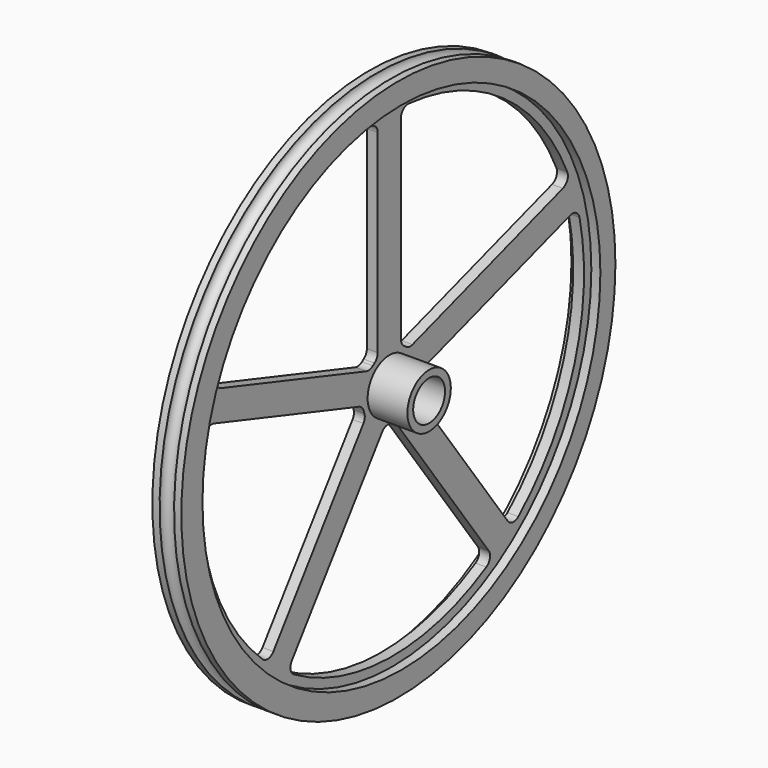
from build123d import *

# Parameters (mm, degrees)
F0_R          = 150
F0_R_2        = 137.5
F1_DEPTH      = 8
F1_DEPTH_BACK = 8
F0_R_3        = 15
F2_DEPTH      = 3
F2_DEPTH_BACK = 3
F0_R_4        = 11
F3_DEPTH      = 25
F3_DEPTH_BACK = 5
F4_R          = 4


with BuildPart() as f1:
    # F0 (on Right) → F1 (new body, two sides)
    with BuildSketch(Plane.YZ) as f1_sk:
        Circle(F0_R)
        with Locations((2.112069, 0)):
            Circle(F0_R_2, mode=Mode.SUBTRACT)
    extrude(amount=F1_DEPTH)
    extrude(f1_sk.sketch, amount=-F1_DEPTH_BACK)

    # F0 (on Right) → F2 (join, two sides)
    with BuildSketch(Plane.YZ) as f2_sk:
        with Locations((2.112069, 0)):
            Circle(F0_R_2)
        with BuildLine():
            ThreePointArc((-20.96825, -1.5987), (-18.909393, -2.888208), (-17.701314, -4.995877))
            ThreePointArc((-17.701314, -4.995877), (-17.492598, -5.68369), (-17.257166, -6.362822))
            ThreePointArc((-17.257166, -6.362822), (-16.995666, -8.778053), (-17.903363, -11.031452))
            Line((-17.903363, -11.031452), (-80.155489, -96.714153))
            ThreePointArc((-80.155489, -96.714153), (-83.705152, -98.750622), (-87.586694, -97.454111))
            ThreePointArc((-87.586694, -97.454111), (-124.025507, -40.404007), (-127.515568, 27.200141))
            ThreePointArc((-127.515568, 27.200141), (-125.127779, 30.500202), (-121.077051, 30.928621))
            Line((-121.077051, 30.928621), (-20.96825, -1.5987))
        make_face(mode=Mode.SUBTRACT)
        with BuildLine():
            ThreePointArc((67.077994, -115.42357), (0.327024, -132.43861), (-65.941115, -113.6307))
            ThreePointArc((-65.941115, -113.6307), (-68.271016, -110.341527), (-67.417198, -106.402225))
            Line((-67.417198, -106.402225), (-4.959091, -20.436016))
            ThreePointArc((-4.959091, -20.436016), (-3.096475, -18.876406), (-0.718646, -18.378761))
            ThreePointArc((-0.718646, -18.378761), (0, -18.392806), (0.718646, -18.378761))
            ThreePointArc((0.718646, -18.378761), (3.096475, -18.876406), (4.959091, -20.436016))
            Line((4.959091, -20.436016), (68.670621, -108.127414))
            ThreePointArc((68.670621, -108.127414), (69.510512, -112.132647), (67.077994, -115.42357))
        make_face(mode=Mode.SUBTRACT)
        with BuildLine():
            ThreePointArc((131.452799, 28.53327), (127.908721, -41.453278), (89.151697, -99.836241))
            ThreePointArc((89.151697, -99.836241), (85.303528, -101.035698), (81.820873, -99.006358))
            Line((81.820873, -99.006358), (17.903363, -11.031452))
            ThreePointArc((17.903363, -11.031452), (16.995666, -8.778053), (17.257166, -6.362822))
            ThreePointArc((17.257166, -6.362822), (17.492598, -5.68369), (17.701314, -4.995877))
            ThreePointArc((17.701314, -4.995877), (18.909393, -2.888208), (20.96825, -1.5987))
            Line((20.96825, -1.5987), (125.025113, 32.211424))
            ThreePointArc((125.025113, 32.211424), (129.053534, 31.795846), (131.452799, 28.53327))
        make_face(mode=Mode.SUBTRACT)
        with BuildLine():
            ThreePointArc((-119.298215, 52.940673), (-76.904867, 106.299086), (-13.59286, 131.516262))
            ThreePointArc((-13.59286, 131.516262), (-9.680685, 130.290805), (-8, 126.551534))
            Line((-8, 126.551534), (-8, 19.447965))
            ThreePointArc((-8, 19.447965), (-8.590172, 17.091396), (-10.221368, 15.291139))
            ThreePointArc((-10.221368, 15.291139), (-10.81102, 14.880092), (-11.384161, 14.44632))
            ThreePointArc((-11.384161, 14.44632), (-13.600374, 13.451271), (-16.023978, 13.618204))
            Line((-16.023978, 13.618204), (-116.260072, 46.186885))
            ThreePointArc((-116.260072, 46.186885), (-119.274863, 48.890941), (-119.298215, 52.940673))
        make_face(mode=Mode.SUBTRACT)
        Circle(F0_R_3, mode=Mode.SUBTRACT)
        with BuildLine():
            ThreePointArc((13.427143, 131.966439), (78.792322, 107.996809), (122.970872, 54.187837))
            ThreePointArc((122.970872, 54.187837), (122.978837, 50.114524), (119.953547, 47.386968))
            Line((119.953547, 47.386968), (16.023978, 13.618204))
            ThreePointArc((16.023978, 13.618204), (13.600374, 13.451271), (11.384161, 14.44632))
            ThreePointArc((11.384161, 14.44632), (10.81102, 14.880092), (10.221368, 15.291139))
            ThreePointArc((10.221368, 15.291139), (8.590172, 17.091396), (8, 19.447965))
            Line((8, 19.447965), (8, 126.984717))
            ThreePointArc((8, 126.984717), (9.618855, 130.668175), (13.427143, 131.966439))
        make_face(mode=Mode.SUBTRACT)
    extrude(amount=F2_DEPTH)
    extrude(f2_sk.sketch, amount=-F2_DEPTH_BACK)

    # F0 (on Right) → F3 (join, two sides)
    with BuildSketch(Plane.YZ) as f3_sk:
        Circle(F0_R_3)
        Circle(F0_R_4, mode=Mode.SUBTRACT)
    extrude(amount=F3_DEPTH)
    extrude(f3_sk.sketch, amount=-F3_DEPTH_BACK)

    # F4 (on Front) → F5 (revolve, cut)
    with BuildSketch(Plane.XZ):
        with Locations((0, -149.748594)):
            Circle(F4_R)
    revolve(axis=Axis((0, 0, 0), (1, 0, 0)), mode=Mode.SUBTRACT)


solid = f1.part
